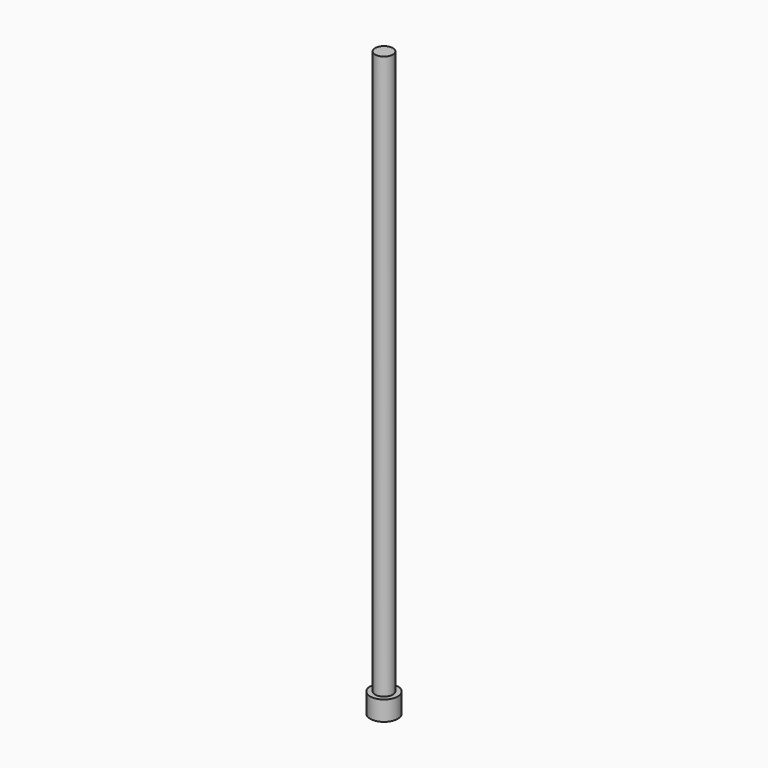
from build123d import *

# Parameters (mm, degrees)
F0_R     = 11.43
F1_DEPTH = 774.7
F2_R     = 17.78
F3_DEPTH = 25.4
F4_DEPTH = 48.26
F5_R     = 1.2732150617
F6_DEPTH = 2.54
F6_TAPER = 15


with BuildPart() as f1:
    # F0 (on Top) → F1 (new body)
    with BuildSketch(Plane.XY):
        Circle(F0_R)
    extrude(amount=F1_DEPTH)

    # F2 (on face) → F3 (join)
    with BuildSketch(Plane(origin=(0, 0, 0), x_dir=(1, 0, 0), z_dir=(0, 0, -1))):
        Circle(F2_R)
    extrude(amount=F3_DEPTH)

    # F4 (cut): a face of the model
    f4_faces = [f1.faces().sort_by_distance(p)[0] for p in [
        (0, 0, 774.7),
    ]]
    extrude(f4_faces, amount=-F4_DEPTH, mode=Mode.SUBTRACT)

    # F5 (on face) → F6 (cut)
    with BuildSketch(Plane(origin=(0, 0, -25.4), x_dir=(1, 0, 0), z_dir=(0, 0, -1))):
        Circle(F5_R)
    extrude(amount=-F6_DEPTH, taper=F6_TAPER, mode=Mode.SUBTRACT)


solid = f1.part
